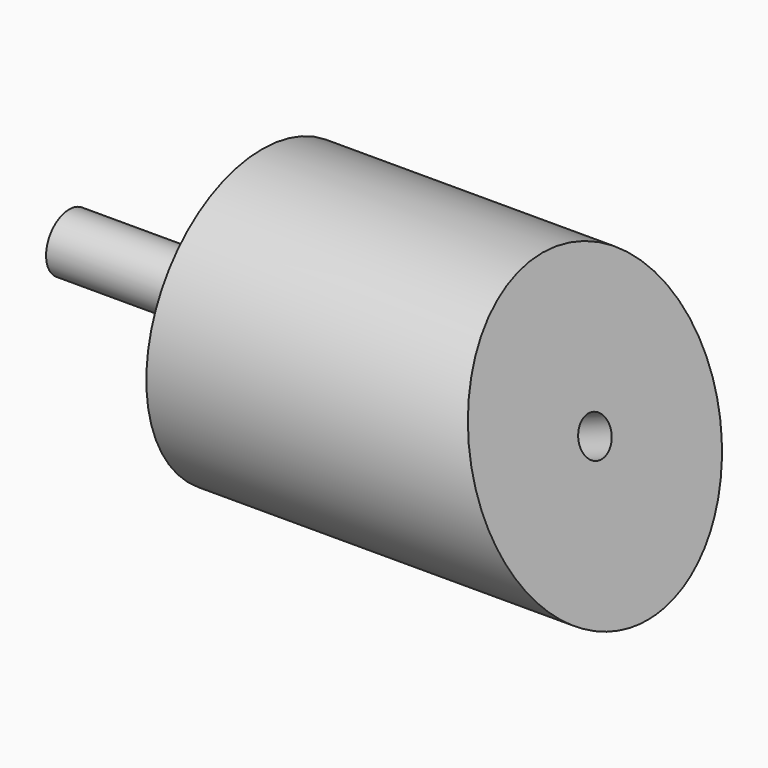
from build123d import *

# Parameters (mm, degrees)
F3_DEPTH      = 7.501
F3_DEPTH_BACK = 7.501
F4_R          = 1
F5_DEPTH      = 15


with BuildPart() as f1:
    # F0 (on Front) → F1 (revolve)
    with BuildSketch(Plane.XZ):
        Polygon((30, 7.5), (10, 7.5), (10, 1.5), (0, 1.5), (0, 0), (30, 0), align=None)
        Polygon((30, 7.5), (10, 7.5), (10, 1.5), (0, 1.5), (0, 0), (30, 0), align=None)
    revolve(axis=Axis((8.7773360142, 0, 0), (1, 0, 0)))

    # F2 (on Front) → F3 (cut, two sides)
    with BuildSketch(Plane.XZ) as f3_sk:
        Polygon((24.540446486, 7.5), (30, -7.5), (30, 7.5), align=None)
    extrude(amount=-F3_DEPTH, mode=Mode.SUBTRACT)
    extrude(f3_sk.sketch, amount=F3_DEPTH_BACK, mode=Mode.SUBTRACT)

    # F4 (on face) → F5 (cut)
    with BuildSketch(Plane(origin=(24.0802131105, 0, 8.764480807), x_dir=(0, 1, 0), z_dir=(0.9396926208, 0, 0.3420201433))):
        with Locations((0, -9.3269656621)):
            Circle(F4_R)
    extrude(amount=-F5_DEPTH, mode=Mode.SUBTRACT)


solid = f1.part
